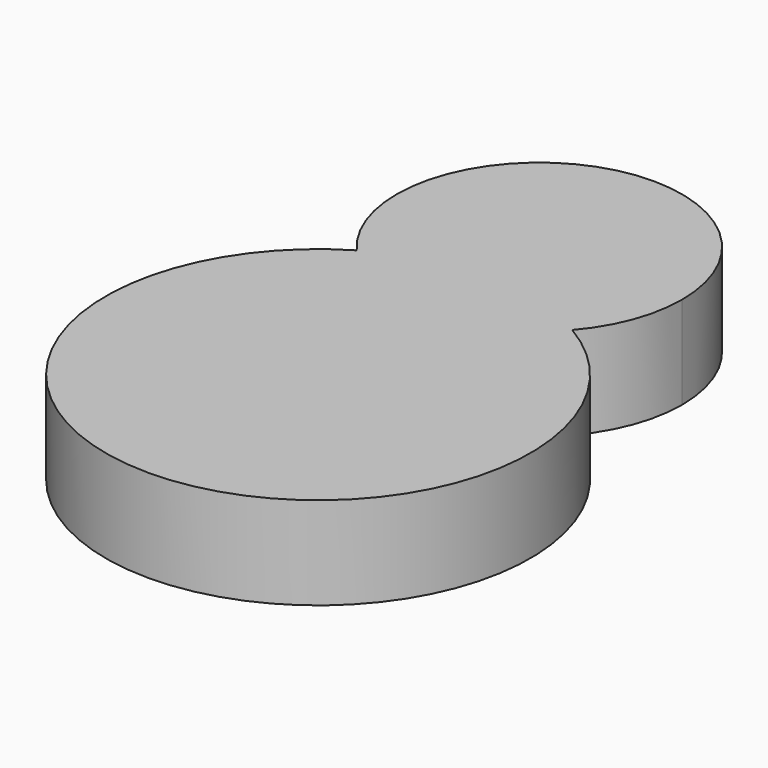
from build123d import *

# Parameters (mm, degrees)
F1_DEPTH = 25.4


with BuildPart() as f1:
    # F0 (on Top) → F1 (new body)
    with BuildSketch(Plane.XY):
        with BuildLine():
            ThreePointArc((-29.5609473813, 50.1983505863), (-28.9104737212, -50.5757700968), (58.255677935, 0))
            ThreePointArc((58.255677935, 0), (50.5757700968, 28.9104737212), (29.5609473813, 50.1983505863))
            ThreePointArc((29.5609473813, 50.1983505863), (0, 36.7177758345), (-29.5609473813, 50.1983505863))
        make_face()
        with BuildLine():
            ThreePointArc((-29.5609473813, 50.1983505863), (0, 36.7177758345), (29.5609473813, 50.1983505863))
            ThreePointArc((29.5609473813, 50.1983505863), (0, 58.255677935), (-29.5609473813, 50.1983505863))
        make_face()
        with BuildLine():
            ThreePointArc((-29.5609473813, 50.1983505863), (0, 58.255677935), (29.5609473813, 50.1983505863))
            ThreePointArc((29.5609473813, 50.1983505863), (36.6757387914, 62.167393532), (39.1517248025, 75.8695006371))
            ThreePointArc((39.1517248025, 75.8695006371), (-13.7021071051, 112.5452394285), (-29.5609473813, 50.1983505863))
        make_face()
    extrude(amount=F1_DEPTH)


solid = f1.part
